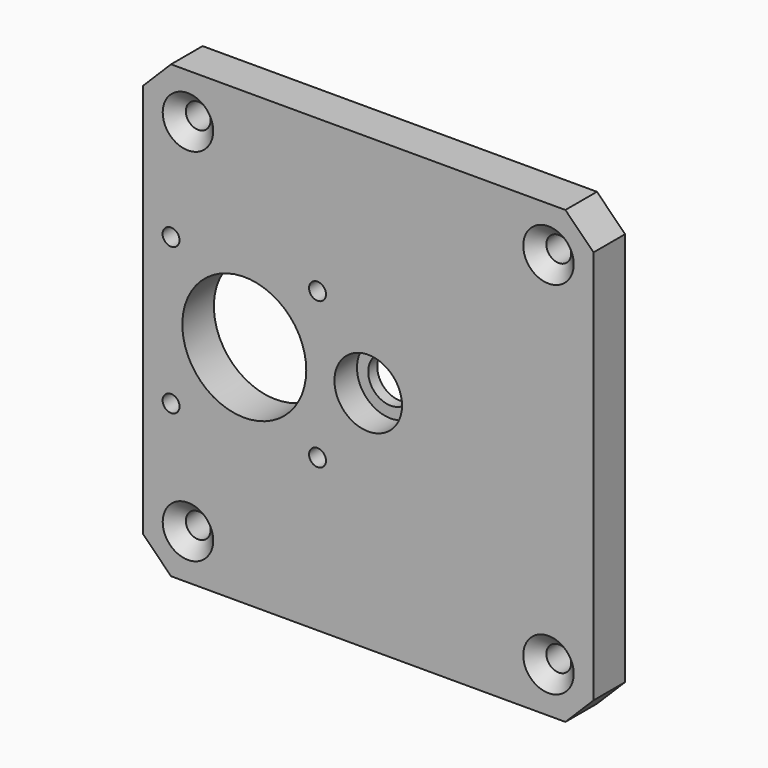
from build123d import *

# Parameters (mm, degrees)
F0_W            = 80
F0_H            = 80
F1_DEPTH        = 7
F2_R            = 6
F3_DEPTH        = 5
F4_R            = 4
F5_DEPTH        = 2.001
F6_R            = 11
F6_R_2          = 1.5
F7_DEPTH        = 7.001
F8_SIZE         = 5
F10_D           = 4.4
F10_CSINK_D     = 8.96
F10_CSINK_ANGLE = 90


with BuildPart() as f1:
    # F0 (on Front) → F1 (new body)
    with BuildSketch(Plane.XZ):
        Rectangle(F0_W, F0_H)
    extrude(amount=F1_DEPTH)

    # F2 (on face) → F3 (cut)
    with BuildSketch(Plane.XZ.offset(7)):
        Circle(F2_R)
    extrude(amount=-F3_DEPTH, mode=Mode.SUBTRACT)

    # F4 (on face) → F5 (cut, through all)
    with BuildSketch(Plane.XZ.offset(2)):
        Circle(F4_R)
    extrude(amount=-F5_DEPTH, mode=Mode.SUBTRACT)

    # F6 (on face) → F7 (cut, through all)
    with BuildSketch(Plane.XZ.offset(7)):
        with Locations((-22, 0)):
            Circle(F6_R)
        with Locations((-35, 13)):
            Circle(F6_R_2)
        with Locations((-35, -13)):
            Circle(F6_R_2)
        with Locations((-9, -13)):
            Circle(F6_R_2)
        with Locations((-9, 13)):
            Circle(F6_R_2)
    extrude(amount=-F7_DEPTH, mode=Mode.SUBTRACT)

    # F8
    f8_edges = [f1.edges().sort_by_distance(p)[0] for p in [
        (-40, -3.5, 40),
        (40, -3.5, 40),
        (-40, -3.5, -40),
        (40, -3.5, -40),
    ]]
    chamfer(f8_edges, length=F8_SIZE)

    # F10 (through all)
    with Locations(Plane.XZ.offset(7)):
        with Locations((-32, 32), (32, 32), (32, -32), (-32, -32)):
            CounterSinkHole(F10_D / 2, F10_CSINK_D / 2, counter_sink_angle=F10_CSINK_ANGLE)


solid = f1.part
